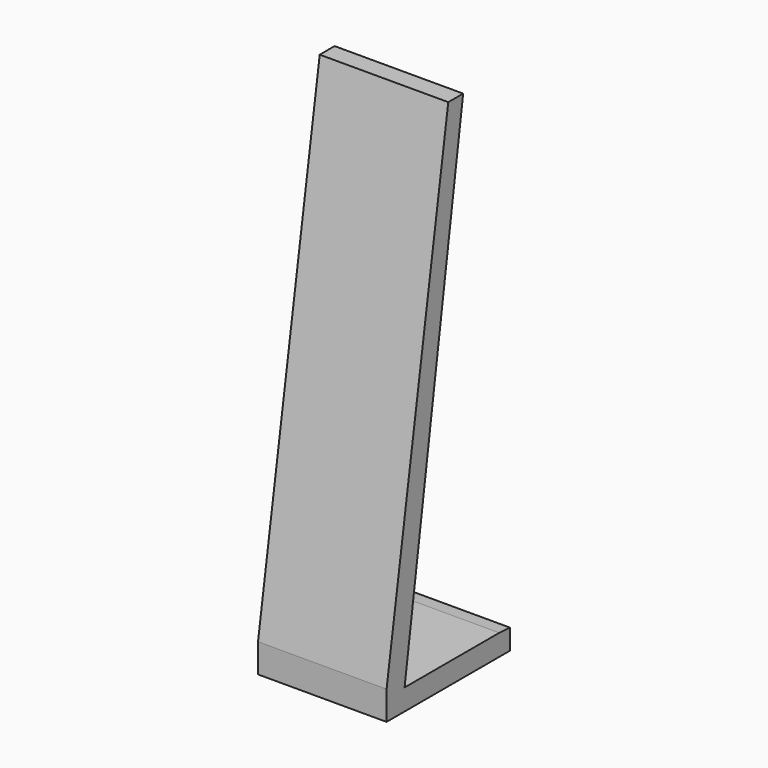
from build123d import *

# Parameters (mm, degrees)
F0_W     = 400
F0_H     = 480
F1_DEPTH = 1600
F3_DEPTH = 400


with BuildPart() as f1:
    # F0 (on Top) → F1 (new body)
    with BuildSketch(Plane.XY):
        with Locations((-200, 240)):
            Rectangle(F0_W, F0_H)
    extrude(amount=F1_DEPTH)

    # F2 (on face) → F3 (cut, through all)
    with BuildSketch(Plane.YZ):
        Polygon((0, 89.725144), (240, 1600), (0, 1600), align=None)
        Polygon((70.063986, 65.886669), (438.236058, 65.886669), (480, 63.237935), (480, 1600), (297.853917, 1600), align=None)
    extrude(amount=-F3_DEPTH, mode=Mode.SUBTRACT)


solid = f1.part
